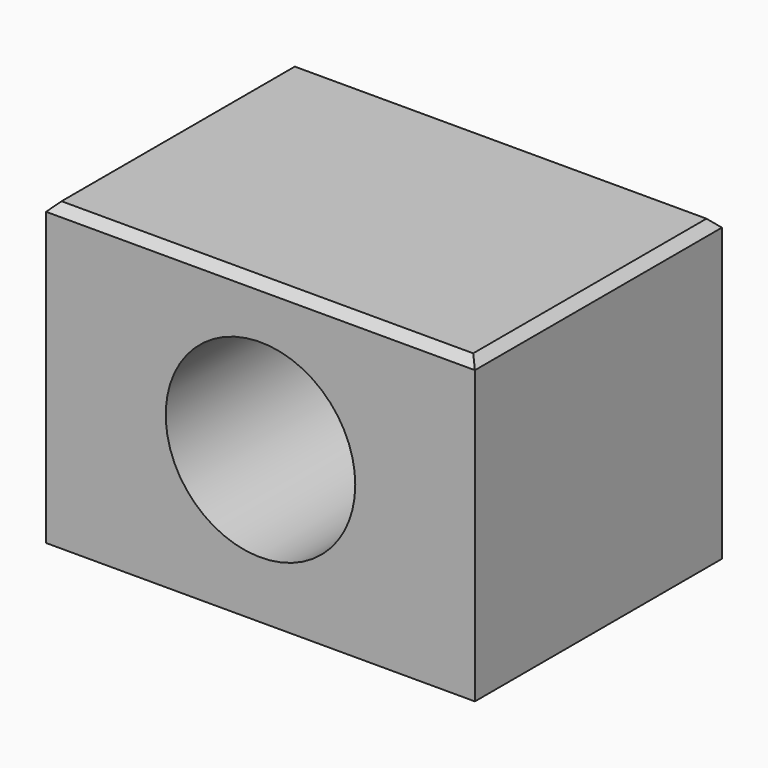
from build123d import *

# Parameters (mm, degrees)
F0_W     = 50
F0_H     = 35
F0_R     = 11.05
F1_DEPTH = 36
F2_D     = 3.2
F2_DEPTH = 12
F2_TIP   = 0.9613769904
F3_SIZE  = 1
F5_D     = 4.2
F5_DEPTH = 12
F5_TIP   = 1.2618073


with BuildPart() as f1:
    # F0 (on Front) → F1 (new body)
    with BuildSketch(Plane.XZ):
        with Locations((0, -0.2)):
            Rectangle(F0_W, F0_H)
        Circle(F0_R, mode=Mode.SUBTRACT)
    extrude(amount=F1_DEPTH)

    # F2
    with Locations(Plane(origin=(0, 0, 0), x_dir=(1, 0, 0), z_dir=(0, 1, 0))):
        with Locations((-12.3743686708, -12.3743686708), (-17.5, 0), (-12.3743686708, 12.3743686708), (12.3743686708, 12.3743686708), (17.5, 0), (12.3743686708, -12.3743686708)):
            Hole(F2_D / 2, depth=F2_DEPTH)
            with Locations((0, 0, -(F2_DEPTH + F2_TIP / 2))):  # 118° drill point
                Cone(0, F2_D / 2, F2_TIP, mode=Mode.SUBTRACT)

    # F3
    f3_edges = [f1.edges().sort_by_distance(p)[0] for p in [
        (25, -18, 17.3),
        (0, 0, 17.3),
        (-25, -18, 17.3),
        (0, -36, 17.3),
    ]]
    chamfer(f3_edges, length=F3_SIZE)

    # F5
    with Locations(Plane(origin=(0, 0, -17.7), x_dir=(1, 0, 0), z_dir=(0, 0, -1))):
        with Locations((17.5, 6), (17.5, 30), (-17.5, 30), (-17.5, 6)):
            Hole(F5_D / 2, depth=F5_DEPTH)
            with Locations((0, 0, -(F5_DEPTH + F5_TIP / 2))):  # 118° drill point
                Cone(0, F5_D / 2, F5_TIP, mode=Mode.SUBTRACT)


solid = f1.part
